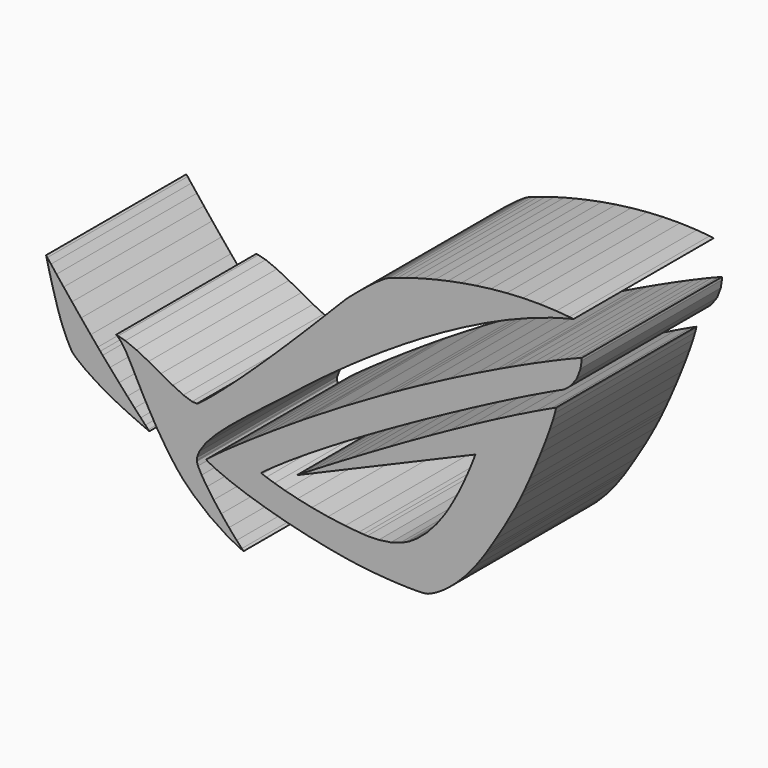
from build123d import *

# Parameters (mm, degrees)
F1_DEPTH = 1.8
F2_SCALE = 10


with BuildPart() as f1:
    # F0 (on Front) → F1 (new body)
    with BuildSketch(Plane.XZ):
        Polygon((-0.213065, -0.012075), (-0.164285, 0.026455), (-0.147635, 0.039685), (-0.097285, 0.079075), (-0.007105, 0.148745), (0.104495, 0.233055), (0.235615, 0.329625), (0.384435, 0.436175), (0.549145, 0.550275), (0.727865, 0.669575), (0.918785, 0.791705), (1.120065, 0.914315), (1.329795, 1.035025), (1.546275, 1.151505), (1.767635, 1.261375), (1.991965, 1.362235), (2.217455, 1.451805), (2.442325, 1.527645), (2.608675, 1.574465), (2.664715, 1.587385), (2.621255, 1.592805), (2.490335, 1.603925), (2.317155, 1.610755), (2.146475, 1.609075), (1.979605, 1.600025), (1.817815, 1.584715), (1.662435, 1.564365), (1.514755, 1.540005), (1.376075, 1.512825), (1.247655, 1.484025), (1.130905, 1.454675), (1.027075, 1.425925), (0.937435, 1.398955), (0.863285, 1.374815), (0.805995, 1.354805), (0.766755, 1.339875), (0.751725, 1.333805), (0.747005, 1.331305), (0.734855, 1.325005), (0.699925, 1.303255), (0.643285, 1.264135), (0.580935, 1.217535), (0.516925, 1.167185), (0.455135, 1.116675), (0.399515, 1.069685), (0.354045, 1.029875), (0.330335, 1.008275), (0.322705, 1.000785), (0.313745, 0.992165), (0.287435, 0.965685), (0.231605, 0.909105), (0.157715, 0.834065), (0.068515, 0.743685), (-0.033475, 0.640875), (-0.145505, 0.528675), (-0.265095, 0.410135), (-0.358295, 0.318665), (-0.389495, 0.288275), (-0.418295, 0.260345), (-0.505045, 0.176845), (-0.620285, 0.067305), (-0.733245, -0.038065), (-0.841685, -0.137175), (-0.943465, -0.227835), (-1.036575, -0.307855), (-1.118755, -0.375185), (-1.170255, -0.415005), (-1.187885, -0.427595), (-1.200685, -0.433775), (-1.249895, -0.430415), (-1.338975, -0.400685), (-1.447865, -0.348055), (-1.569235, -0.282355), (-1.695755, -0.213245), (-1.819991, -0.150465), (-1.934737, -0.103755), (-2.007924, -0.084225), (-2.032556, -0.082925), (-2.017636, -0.088355), (-1.979659, -0.123395), (-1.924917, -0.204615), (-1.860355, -0.325655), (-1.798886, -0.445875), (-1.777998, -0.485755), (-1.758684, -0.522705), (-1.699225, -0.632999), (-1.605525, -0.795813), (-1.498325, -0.961993), (-1.410645, -1.081566), (-1.378915, -1.119381), (-1.345385, -1.159366), (-1.234215, -1.270586), (-1.068255, -1.408606), (-0.893115, -1.524817), (-0.765245, -1.592634), (-0.720755, -1.610755), (-0.739045, -1.592471), (-0.791885, -1.535722), (-0.870225, -1.445933), (-0.950635, -1.347626), (-1.027935, -1.246877), (-1.096845, -1.150034), (-1.152135, -1.063229), (-1.188645, -0.992645), (-1.201545, -0.956458), (-1.201115, -0.944577), (-1.200355, -0.922712), (-1.176045, -0.857934), (-1.110245, -0.760494), (-1.009175, -0.652638), (-0.878205, -0.534905), (-0.722775, -0.407625), (-0.548345, -0.271345), (-0.360415, -0.126495), align=None)
    extrude(amount=F1_DEPTH)


with BuildPart() as f1b:
    # F0 (on Front) → F1, piece 2 (new body)
    with BuildSketch(Plane.XZ):
        Polygon((-0.060065, -0.192835), (-0.131415, -0.238305), (-0.177845, -0.267815), (-0.316575, -0.357495), (-0.489475, -0.471375), (-0.647245, -0.577495), (-0.786895, -0.673472), (-0.905435, -0.756913), (-0.999955, -0.825436), (-1.067495, -0.876597), (-1.096245, -0.899601), (-1.105035, -0.908119), (-1.080025, -0.923634), (-1.000495, -0.963186), (-0.858995, -1.022702), (-0.686795, -1.084388), (-0.490185, -1.145911), (-0.275455, -1.205102), (-0.048885, -1.259626), (0.183365, -1.307261), (0.356825, -1.337317), (0.414925, -1.345727), (0.443145, -1.349795), (0.528045, -1.360266), (0.644905, -1.372094), (0.760895, -1.381209), (0.871315, -1.387448), (0.971465, -1.390702), (1.056745, -1.390974), (1.122505, -1.388098), (1.154025, -1.384844), (1.164065, -1.382077), (1.171175, -1.380069), (1.192105, -1.372202), (1.238065, -1.350772), (1.299685, -1.314856), (1.374885, -1.261417), (1.461535, -1.187523), (1.557455, -1.090193), (1.660585, -0.966387), (1.743155, -0.852399), (1.768715, -0.813174), (1.793285, -0.775361), (1.865615, -0.66094), (1.964515, -0.496665), (2.060705, -0.324025), (2.128405, -0.191475), (2.149405, -0.146615), (2.166175, -0.110645), (2.215115, -0.002085), (2.275975, 0.138485), (2.330995, 0.272105), (2.379225, 0.395705), (2.419755, 0.506215), (2.451655, 0.600675), (2.474005, 0.675985), (2.483775, 0.715635), (2.485835, 0.729035), (2.434295, 0.705495), (2.280815, 0.632355), (2.066405, 0.526075), (1.845705, 0.412415), (1.621795, 0.293485), (1.397955, 0.171525), (1.177135, 0.048745), (0.962505, -0.072725), (0.757265, -0.190675), (0.564455, -0.302925), (0.387205, -0.407305), (0.228675, -0.501655), (0.091955, -0.583685), (-0.019795, -0.651337), (-0.103525, -0.702334), (-0.156035, -0.734562), (-0.174215, -0.745792), (1.657655, 0.036385), (1.652175, 0.021415), (1.636335, -0.020585), (1.610785, -0.084885), (1.576225, -0.166855), (1.533255, -0.261905), (1.482635, -0.365365), (1.425015, -0.472575), (1.377865, -0.552815), (1.361155, -0.578965), (1.337615, -0.615692), (1.259435, -0.721052), (1.157495, -0.833629), (1.057565, -0.918536), (0.986975, -0.965084), (0.962015, -0.97778), (0.943785, -0.987002), (0.887205, -1.010929), (0.790365, -1.039683), (0.665965, -1.057369), (0.547635, -1.059919), (0.508405, -1.057533), (0.461645, -1.054656), (0.321615, -1.041202), (0.144745, -1.017384), (-0.019315, -0.988359), (-0.167485, -0.956349), (-0.296825, -0.923744), (-0.404355, -0.892819), (-0.487035, -0.865855), (-0.528435, -0.850827), (-0.541885, -0.845184), (-0.508525, -0.819686), (-0.406315, -0.746009), (-0.248965, -0.638479), (-0.072865, -0.524055), (0.118925, -0.404215), (0.323355, -0.280455), (0.537435, -0.154325), (0.758185, -0.027315), (0.982475, 0.099095), (1.207295, 0.223395), (1.429685, 0.344055), (1.646535, 0.459605), (1.854815, 0.568555), (2.051585, 0.669355), (2.233715, 0.760555), (2.398215, 0.840635), (2.505965, 0.891525), (2.542105, 0.908025), (2.567385, 0.919635), (2.634925, 0.972855), (2.699585, 1.061395), (2.736865, 1.161925), (2.748105, 1.237555), (2.747505, 1.262615), (2.737835, 1.259525), (2.709365, 1.248895), (2.649955, 1.225505), (2.571065, 1.192895), (2.474395, 1.151675), (2.361645, 1.102305), (2.234645, 1.045275), (2.095105, 0.981145), (1.982255, 0.928205), (1.944765, 0.910305), (1.877175, 0.878065), (1.675395, 0.779105), (1.387745, 0.633275), (1.087935, 0.475025), (0.858115, 0.349485), (0.782065, 0.306735), (0.699705, 0.260495), (0.308905, 0.033025), align=None)
    extrude(amount=F1_DEPTH)


with BuildPart() as f1c:
    # F0 (on Front) → F1, piece 3 (new body)
    with BuildSketch(Plane.XZ):
        Polygon((-2.138187, -0.627031), (-2.104822, -0.645206), (-2.086593, -0.655134), (-2.031199, -0.683997), (-1.957795, -0.720509), (-1.887645, -0.753876), (-1.823626, -0.783173), (-1.768722, -0.807479), (-1.725865, -0.825979), (-1.698025, -0.837751), (-1.688045, -0.841874), (-1.698675, -0.830806), (-1.728895, -0.798961), (-1.776426, -0.748341), (-1.838926, -0.680905), (-1.914066, -0.598605), (-1.999516, -0.503495), (-2.092886, -0.397435), (-2.167322, -0.311325), (-2.191844, -0.282465), (-2.216693, -0.253225), (-2.290531, -0.165005), (-2.388676, -0.045975), (-2.482318, 0.069375), (-2.567658, 0.175755), (-2.640792, 0.267715), (-2.697812, 0.340035), (-2.734921, 0.387345), (-2.748105, 0.404275), (-2.74523, 0.392005), (-2.736875, 0.357775), (-2.723854, 0.305485), (-2.70671, 0.238965), (-2.686202, 0.162185), (-2.662981, 0.078965), (-2.637645, -0.006815), (-2.617842, -0.070225), (-2.610898, -0.091285), (-2.602542, -0.116615), (-2.57444, -0.191645), (-2.538361, -0.275035), (-2.505755, -0.338995), (-2.486929, -0.371115), (-2.479768, -0.381205), (-2.470924, -0.393685), (-2.432133, -0.429385), (-2.348094, -0.494325), (-2.236115, -0.568655), align=None)
    extrude(amount=F1_DEPTH)


with BuildPart() as f1b_1:
    # F2: moved
    add(f1b.part.scale(F2_SCALE).moved(Location((9.945315, 16.2, 8.173071))))


with BuildPart() as f1c_1:
    # F2: moved
    add(f1c.part.scale(F2_SCALE).moved(Location((9.945315, 16.2, 8.173071))))


with BuildPart() as f1_1:
    # F2: moved
    add(f1.part.scale(F2_SCALE).moved(Location((9.945315, 16.2, 8.173071))))


solid = Compound([f1b_1.part, f1c_1.part, f1_1.part])
